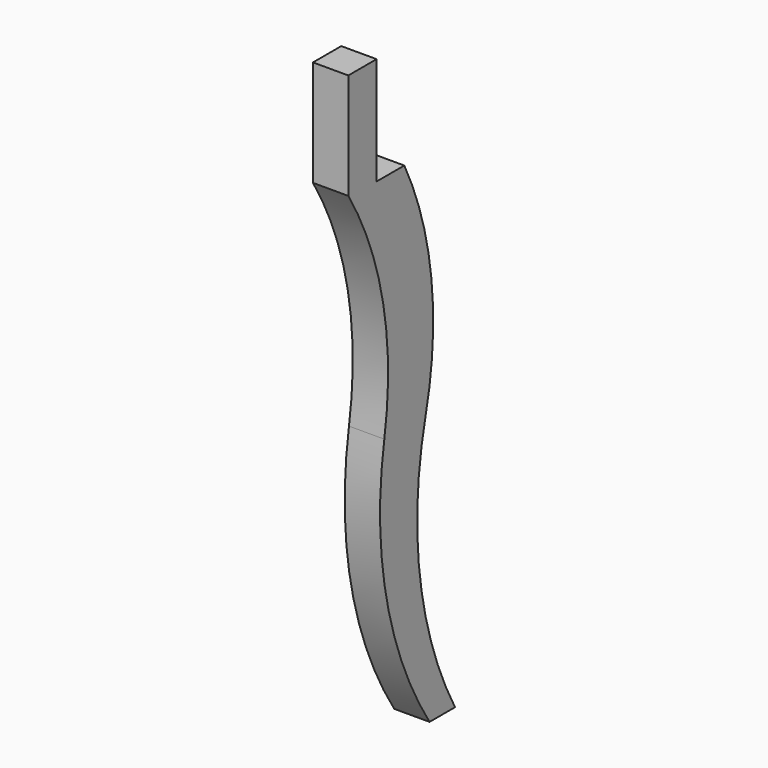
from build123d import *

# Parameters (mm, degrees)
F1_DEPTH = 25


with BuildPart() as f1:
    # F0 (on Right) → F1 (new body)
    with BuildSketch(Plane.YZ):
        with BuildLine():
            ThreePointArc((-42.22845, 60.540393), (-37.159315, 143.848694), (-61.121118, 223.797434))
            Line((-61.121118, 223.797434), (-85.621118, 223.797434))
            Line((-85.621118, 223.797434), (-85.621118, 299.997434))
            Line((-85.621118, 299.997434), (-110.621118, 299.997434))
            Line((-110.621118, 299.997434), (-110.621118, 224.997434))
            ThreePointArc((-110.621118, 224.997434), (-79.816037, 145.650842), (-78.79324, 60.540393))
            ThreePointArc((-78.79324, 60.540393), (-76.894776, -39.398884), (-38.776239, -131.802566))
            Line((-38.776239, -131.802566), (-16.268492, -131.802566))
            ThreePointArc((-16.268492, -131.802566), (-47.291443, -38.066293), (-42.22845, 60.540393))
        make_face()
    extrude(amount=F1_DEPTH)


solid = f1.part
